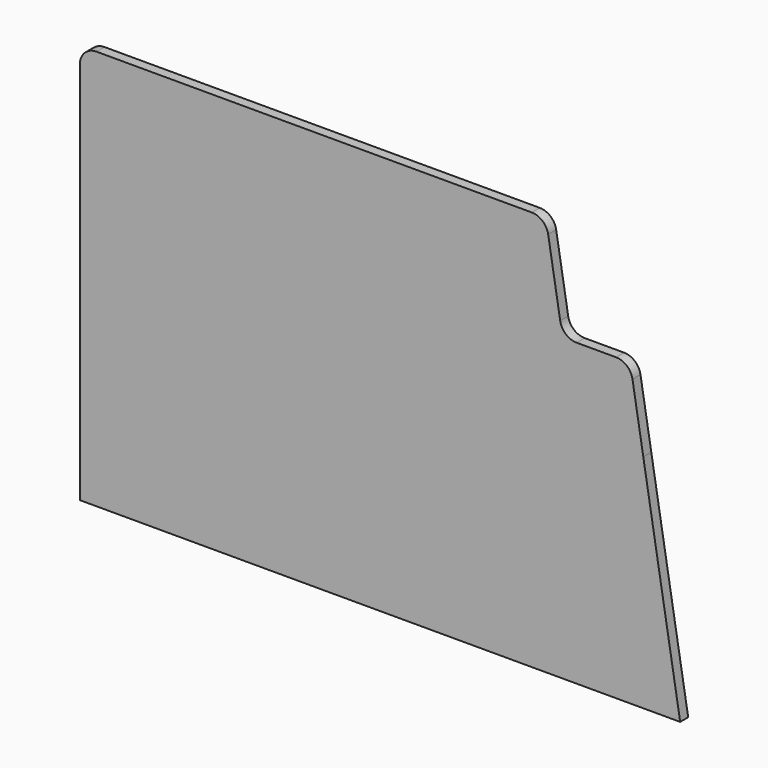
from build123d import *

# Parameters (mm, degrees)
F1_DEPTH = 3
F2_R     = 5


with BuildPart() as f1:
    # F0 (on Front) → F1 (new body)
    with BuildSketch(Plane.XZ):
        Polygon((0, 120), (0, 90), (144.724125, 90), (139.724125, 120), align=None)
        Polygon((0, 90), (0, 66.364439), (168.93926, 66.364439), (165, 90), (144.724125, 90), align=None)
        Polygon((0, 66.364439), (0, 0), (180, 0), (168.93926, 66.364439), align=None)
    extrude(amount=F1_DEPTH)

    # F2
    f2_edges = [f1.edges().sort_by_distance(p)[0] for p in [
        (165, -1.5, 90),
        (144.724125, -1.5, 90),
        (139.724125, -1.5, 120),
        (0, -1.5, 120),
    ]]
    fillet(f2_edges, radius=F2_R)


solid = f1.part
